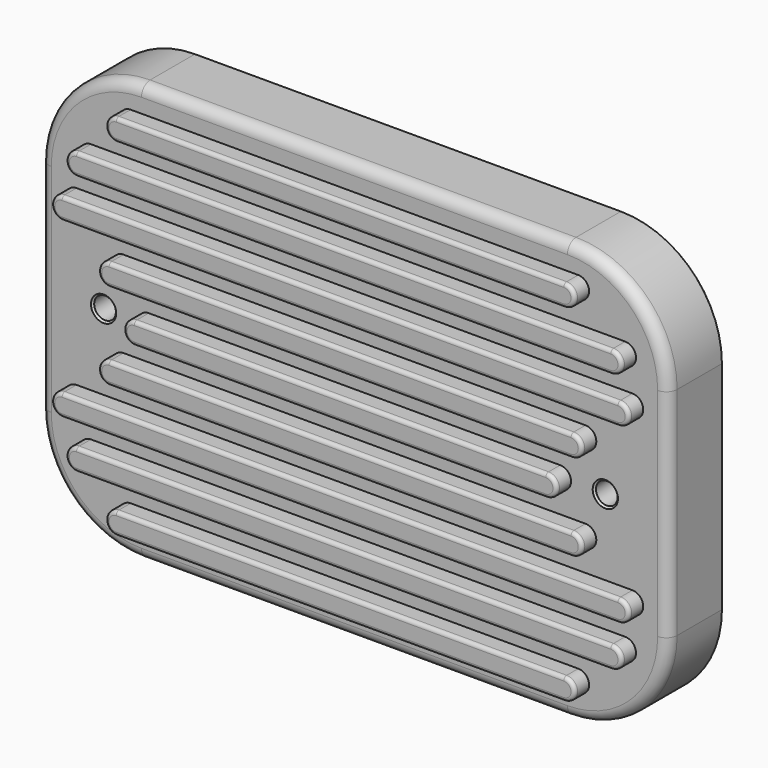
from build123d import *

# Parameters (mm, degrees)
F1_DEPTH = 19
F2_DEPTH = 9
F3_R     = 3
F4_DEPTH = 19.001
F5_R     = 3
F6_SIZE  = 0.5
F7_SIZE  = 0.5
F8_DEPTH = 5
F9_R     = 1


with BuildPart() as f1:
    # F0 (on Front) → F1 (new body)
    with BuildSketch(Plane.XZ):
        with BuildLine():
            Line((62.6134961993, 19.3470615509), (-55.3865038007, 19.3470615509))
            ThreePointArc((-55.3865038007, 19.3470615509), (-75.185493674, 11.1460514241), (-83.3865038007, -8.6529384491))
            Line((-83.3865038007, -8.6529384491), (-83.3865038007, -68.6529384491))
            ThreePointArc((-83.3865038007, -68.6529384491), (-75.185493674, -88.4519283223), (-55.3865038007, -96.6529384491))
            Line((-55.3865038007, -96.6529384491), (62.6134961993, -96.6529384491))
            ThreePointArc((62.6134961993, -96.6529384491), (82.4124860725, -88.4519283223), (90.6134961993, -68.6529384491))
            Line((90.6134961993, -68.6529384491), (90.6134961993, -8.6529384491))
            ThreePointArc((90.6134961993, -8.6529384491), (82.4124860725, 11.1460514241), (62.6134961993, 19.3470615509))
        make_face()
        with BuildLine():
            Line((62.6134961993, -93.6529384491), (-55.3865038007, -93.6529384491))
            ThreePointArc((-55.3865038007, -93.6529384491), (-73.0641733304, -86.3306079788), (-80.3865038007, -68.6529384491))
            Line((-80.3865038007, -68.6529384491), (-80.3865038007, -8.6529384491))
            ThreePointArc((-80.3865038007, -8.6529384491), (-73.0641733304, 9.0247310806), (-55.3865038007, 16.3470615509))
            Line((-55.3865038007, 16.3470615509), (62.6134961993, 16.3470615509))
            ThreePointArc((62.6134961993, 16.3470615509), (80.2911657289, 9.0247310806), (87.6134961993, -8.6529384491))
            Line((87.6134961993, -8.6529384491), (87.6134961993, -68.6529384491))
            ThreePointArc((87.6134961993, -68.6529384491), (80.2911657289, -86.3306079788), (62.6134961993, -93.6529384491))
        make_face(mode=Mode.SUBTRACT)
        with BuildLine():
            ThreePointArc((-80.3865038007, -68.6529384491), (-73.0641733304, -86.3306079788), (-55.3865038007, -93.6529384491))
            Line((-55.3865038007, -93.6529384491), (62.6134961993, -93.6529384491))
            ThreePointArc((62.6134961993, -93.6529384491), (80.2911657289, -86.3306079788), (87.6134961993, -68.6529384491))
            Line((87.6134961993, -68.6529384491), (87.6134961993, -8.6529384491))
            ThreePointArc((87.6134961993, -8.6529384491), (80.2911657289, 9.0247310806), (62.6134961993, 16.3470615509))
            Line((62.6134961993, 16.3470615509), (-55.3865038007, 16.3470615509))
            ThreePointArc((-55.3865038007, 16.3470615509), (-73.0641733304, 9.0247310806), (-80.3865038007, -8.6529384491))
            Line((-80.3865038007, -8.6529384491), (-80.3865038007, -68.6529384491))
        make_face()
    extrude(amount=F1_DEPTH)

    # F0 (on Front) → F2 (cut)
    with BuildSketch(Plane.XZ):
        with BuildLine():
            ThreePointArc((-80.3865038007, -68.6529384491), (-73.0641733304, -86.3306079788), (-55.3865038007, -93.6529384491))
            Line((-55.3865038007, -93.6529384491), (62.6134961993, -93.6529384491))
            ThreePointArc((62.6134961993, -93.6529384491), (80.2911657289, -86.3306079788), (87.6134961993, -68.6529384491))
            Line((87.6134961993, -68.6529384491), (87.6134961993, -8.6529384491))
            ThreePointArc((87.6134961993, -8.6529384491), (80.2911657289, 9.0247310806), (62.6134961993, 16.3470615509))
            Line((62.6134961993, 16.3470615509), (-55.3865038007, 16.3470615509))
            ThreePointArc((-55.3865038007, 16.3470615509), (-73.0641733304, 9.0247310806), (-80.3865038007, -8.6529384491))
            Line((-80.3865038007, -8.6529384491), (-80.3865038007, -68.6529384491))
        make_face()
    extrude(amount=F2_DEPTH, mode=Mode.SUBTRACT)

    # F3 (on face) → F4 (cut, through all)
    with BuildSketch(Plane.XZ.offset(19)):
        with Locations((-65.8865038007, -38.6529384491)):
            Circle(F3_R)
        with Locations((73.1134961993, -38.6529384491)):
            Circle(F3_R)
    extrude(amount=-F4_DEPTH, mode=Mode.SUBTRACT)

    # F5
    f5_edges = [f1.edges().sort_by_distance(p)[0] for p in [
        (-75.185494, -19, 11.146051),
        (3.613496, -19, 19.347062),
        (82.412486, -19, 11.146051),
        (90.613496, -19, -38.652938),
        (82.412486, -19, -88.451928),
        (3.613496, -19, -96.652938),
        (-75.185494, -19, -88.451928),
        (-83.386504, -19, -38.652938),
    ]]
    fillet(f5_edges, radius=F5_R)

    # F6
    f6_edges = [f1.edges().sort_by_distance(p)[0] for p in [
        (-68.886504, -19, -38.652938),
        (70.113496, -9, -38.652938),
        (-68.886504, -9, -38.652938),
        (70.113496, -19, -38.652938),
    ]]
    chamfer(f6_edges, length=F6_SIZE)

    # F7
    f7_edges = [f1.edges().sort_by_distance(p)[0] for p in [
        (3.613496, 0, 19.347062),
        (82.412486, 0, 11.146051),
        (-75.185494, 0, 11.146051),
        (90.613496, 0, -38.652938),
        (-83.386504, 0, -38.652938),
        (82.412486, 0, -88.451928),
        (-75.185494, 0, -88.451928),
        (3.613496, 0, -96.652938),
        (-73.064173, 0, -86.330608),
        (3.613496, 0, -93.652938),
        (80.291166, 0, -86.330608),
        (87.613496, 0, -38.652938),
        (80.291166, 0, 9.024731),
        (3.613496, 0, 16.347062),
        (-73.064173, 0, 9.024731),
        (-80.386504, 0, -38.652938),
    ]]
    chamfer(f7_edges, length=F7_SIZE)

    # F3 (on face) → F8 (join)
    with BuildSketch(Plane.XZ.offset(19)):
        with BuildLine():
            ThreePointArc((-58.3865038007, 12.3470615509), (-61.3865038007, 9.3470615509), (-58.3865038007, 6.3470615509))
            Line((-58.3865038007, 6.3470615509), (65.6134961993, 6.3470615509))
            ThreePointArc((65.6134961993, 6.3470615509), (68.6134961993, 9.3470615509), (65.6134961993, 12.3470615509))
            Line((65.6134961993, 12.3470615509), (-58.3865038007, 12.3470615509))
        make_face()
        with BuildLine():
            ThreePointArc((-69.3865038007, 0.3470615509), (-72.3865038007, -2.6529384491), (-69.3865038007, -5.6529384491))
            Line((-69.3865038007, -5.6529384491), (78.6134961993, -5.6529384491))
            ThreePointArc((78.6134961993, -5.6529384491), (81.6134961993, -2.6529384491), (78.6134961993, 0.3470615509))
            Line((78.6134961993, 0.3470615509), (-69.3865038007, 0.3470615509))
        make_face()
        with BuildLine():
            ThreePointArc((-73.3865038007, -11.6529384491), (-76.3865038007, -14.6529384491), (-73.3865038007, -17.6529384491))
            Line((-73.3865038007, -17.6529384491), (80.6134961993, -17.6529384491))
            ThreePointArc((80.6134961993, -17.6529384491), (83.6134961993, -14.6529384491), (80.6134961993, -11.6529384491))
            Line((80.6134961993, -11.6529384491), (-73.3865038007, -11.6529384491))
        make_face()
        with BuildLine():
            ThreePointArc((-60.3865038007, -23.6529384491), (-63.3865038007, -26.6529384491), (-60.3865038007, -29.6529384491))
            Line((-60.3865038007, -29.6529384491), (67.6134961993, -29.6529384491))
            ThreePointArc((67.6134961993, -29.6529384491), (70.6134961993, -26.6529384491), (67.6134961993, -23.6529384491))
            Line((67.6134961993, -23.6529384491), (-60.3865038007, -23.6529384491))
        make_face()
        with BuildLine():
            ThreePointArc((-53.3865038007, -35.6529384491), (-56.3865038007, -38.6529384491), (-53.3865038007, -41.6529384491))
            Line((-53.3865038007, -41.6529384491), (60.6134961993, -41.6529384491))
            ThreePointArc((60.6134961993, -41.6529384491), (63.6134961993, -38.6529384491), (60.6134961993, -35.6529384491))
            Line((60.6134961993, -35.6529384491), (-53.3865038007, -35.6529384491))
        make_face()
        with BuildLine():
            ThreePointArc((-60.3865038007, -47.6529384491), (-63.3865038007, -50.6529384491), (-60.3865038007, -53.6529384491))
            Line((-60.3865038007, -53.6529384491), (67.6134961993, -53.6529384491))
            ThreePointArc((67.6134961993, -53.6529384491), (70.6134961993, -50.6529384491), (67.6134961993, -47.6529384491))
            Line((67.6134961993, -47.6529384491), (-60.3865038007, -47.6529384491))
        make_face()
        with BuildLine():
            ThreePointArc((-73.3865038007, -59.6529384491), (-76.3865038007, -62.6529384491), (-73.3865038007, -65.6529384491))
            Line((-73.3865038007, -65.6529384491), (80.6134961993, -65.6529384491))
            ThreePointArc((80.6134961993, -65.6529384491), (83.6134961993, -62.6529384491), (80.6134961993, -59.6529384491))
            Line((80.6134961993, -59.6529384491), (-73.3865038007, -59.6529384491))
        make_face()
        with BuildLine():
            ThreePointArc((-69.3865038007, -71.6529384491), (-72.3865038007, -74.6529384491), (-69.3865038007, -77.6529384491))
            Line((-69.3865038007, -77.6529384491), (78.6134961993, -77.6529384491))
            ThreePointArc((78.6134961993, -77.6529384491), (81.6134961993, -74.6529384491), (78.6134961993, -71.6529384491))
            Line((78.6134961993, -71.6529384491), (-69.3865038007, -71.6529384491))
        make_face()
        with BuildLine():
            ThreePointArc((-58.3865038007, -83.6529384491), (-61.3865038007, -86.6529384491), (-58.3865038007, -89.6529384491))
            Line((-58.3865038007, -89.6529384491), (65.6134961993, -89.6529384491))
            ThreePointArc((65.6134961993, -89.6529384491), (68.6134961993, -86.6529384491), (65.6134961993, -83.6529384491))
            Line((65.6134961993, -83.6529384491), (-58.3865038007, -83.6529384491))
        make_face()
    extrude(amount=F8_DEPTH)

    # F9
    f9_edges = [f1.edges().sort_by_distance(p)[0] for p in [
        (3.613496, -24, 12.347062),
        (-61.386504, -24, 9.347062),
        (3.613496, -24, 6.347062),
        (68.613496, -24, 9.347062),
        (-72.386504, -24, -2.652938),
        (4.613496, -24, -5.652938),
        (81.613496, -24, -2.652938),
        (4.613496, -24, 0.347062),
        (3.613496, -24, -11.652938),
        (-76.386504, -24, -14.652938),
        (3.613496, -24, -17.652938),
        (83.613496, -24, -14.652938),
        (-63.386504, -24, -26.652938),
        (3.613496, -24, -29.652938),
        (70.613496, -24, -26.652938),
        (3.613496, -24, -23.652938),
        (63.613496, -24, -38.652938),
        (3.613496, -24, -35.652938),
        (-56.386504, -24, -38.652938),
        (3.613496, -24, -41.652938),
        (3.613496, -24, -47.652938),
        (-63.386504, -24, -50.652938),
        (3.613496, -24, -53.652938),
        (70.613496, -24, -50.652938),
        (83.613496, -24, -62.652938),
        (3.613496, -24, -59.652938),
        (-76.386504, -24, -62.652938),
        (3.613496, -24, -65.652938),
        (81.613496, -24, -74.652938),
        (4.613496, -24, -71.652938),
        (-72.386504, -24, -74.652938),
        (4.613496, -24, -77.652938),
        (-61.386504, -24, -86.652938),
        (3.613496, -24, -89.652938),
        (68.613496, -24, -86.652938),
        (3.613496, -24, -83.652938),
    ]]
    fillet(f9_edges, radius=F9_R)


solid = f1.part
